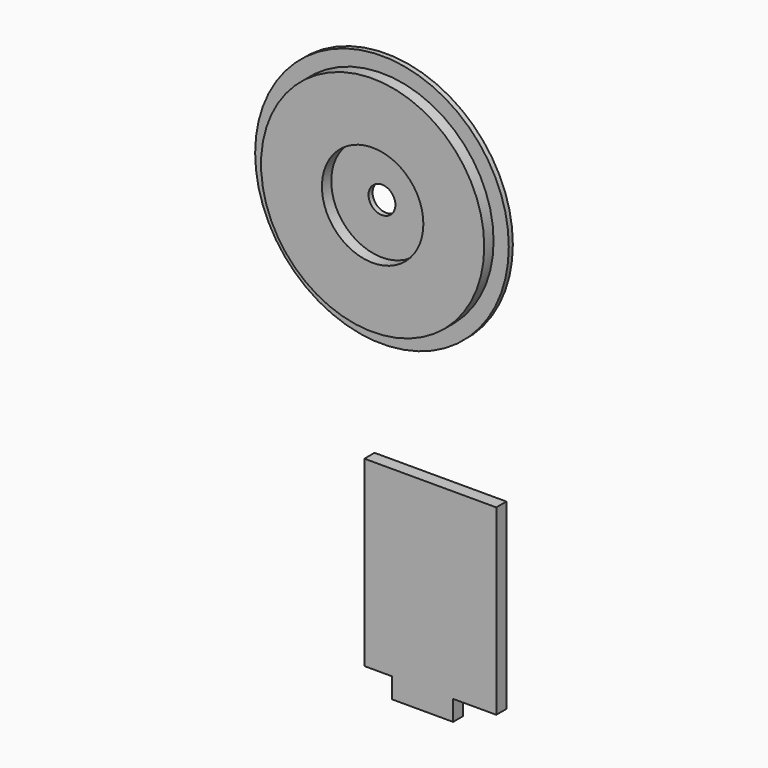
from build123d import *

# Parameters (mm, degrees)
F0_R     = 25
F0_R_2   = 22
F0_R_3   = 10
F0_R_4   = 2.65
F1_DEPTH = 1
F2_DEPTH = 3.3
F3_W     = 12
F3_H     = 4
F4_DEPTH = 2.5


with BuildPart() as f1:
    # F0 (on Front) → F1 (new body)
    with BuildSketch(Plane.XZ):
        Circle(F0_R)
        Circle(F0_R_2, mode=Mode.SUBTRACT)
        Circle(F0_R_2)
        Circle(F0_R_3, mode=Mode.SUBTRACT)
        Circle(F0_R_3)
        Circle(F0_R_4, mode=Mode.SUBTRACT)
    extrude(amount=F1_DEPTH)

    # F0 (on Front) → F2 (join)
    with BuildSketch(Plane.XZ):
        Circle(F0_R_2)
        Circle(F0_R_3, mode=Mode.SUBTRACT)
    extrude(amount=F2_DEPTH)


with BuildPart() as f4:
    # F3 (on Front) → F4 (new body)
    with BuildSketch(Plane.XZ):
        with Locations((9.220634, -83.038755)):
            Rectangle(F3_W, F3_H)
        Polygon((23.728754, -45.038755), (-2.271246, -45.038755), (-2.271246, -81.038755), (3.220634, -81.038755), (15.220634, -81.038755), (23.728754, -81.038755), align=None)
    extrude(amount=F4_DEPTH)


solid = Compound([f1.part, f4.part])
